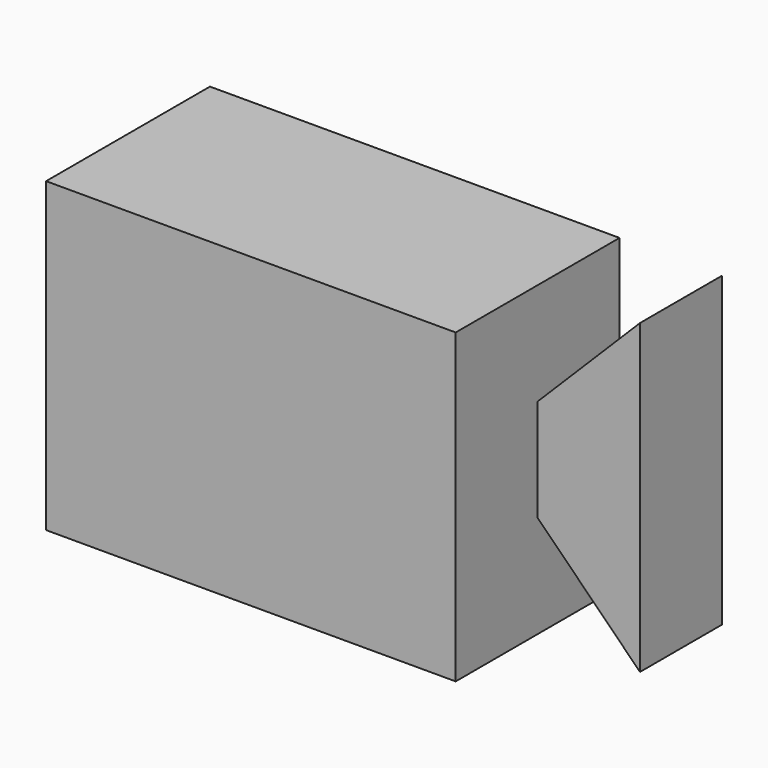
from build123d import *

# Parameters (mm, degrees)
F0_W     = 101.6
F0_H     = 76.2
F1_DEPTH = 50.8
F3_DEPTH = 25.4
F4_DEPTH = 25.4


with BuildPart() as f1:
    # F0 (on Front) → F1 (new body)
    with BuildSketch(Plane.XZ):
        Rectangle(F0_W, F0_H)
    extrude(amount=F1_DEPTH)

    # F2 (on Front) → F3 (join)
    with BuildSketch(Plane.XZ):
        Polygon((76.19601, 38.1), (50.8, 12.7), (50.8, -12.7), (76.19601, -38.1), align=None)
    extrude(amount=F3_DEPTH)

    # F2 (on Front) → F4 (join)
    with BuildSketch(Plane.XZ):
        Polygon((76.19601, 38.1), (50.8, 12.7), (50.8, -12.7), (76.19601, -38.1), align=None)
    extrude(amount=F4_DEPTH)


solid = f1.part
